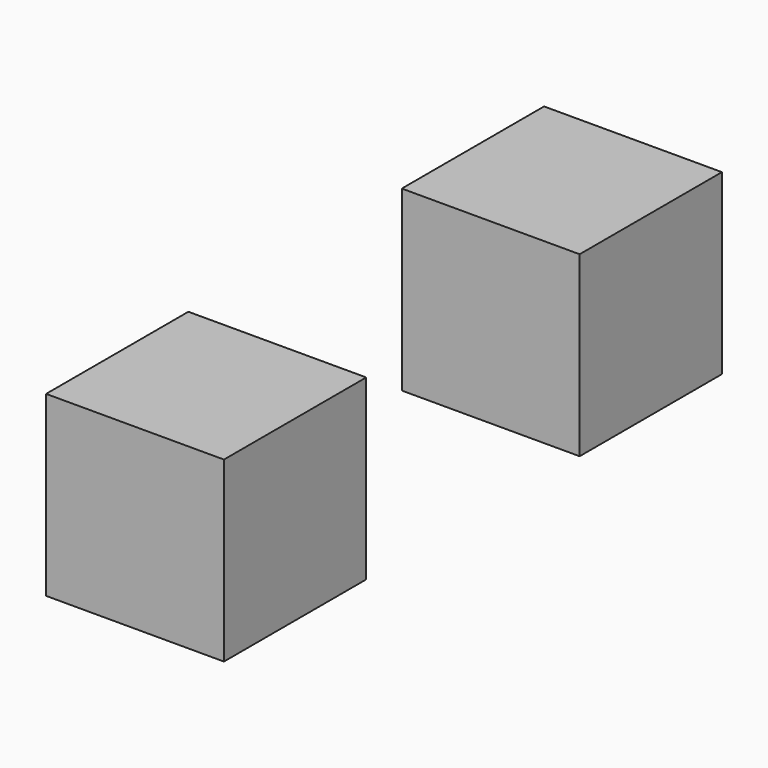
from build123d import *

# Parameters (mm, degrees)
F0_W          = 1
F0_H          = 1
F1_DEPTH      = 1
F2_W          = 1
F2_H          = 1
F3_DEPTH      = 0.5
F3_DEPTH_BACK = 0.5


with BuildPart() as f1:
    # F0 (on Front) → F1 (new body)
    with BuildSketch(Plane.XZ):
        Rectangle(F0_W, F0_H)
    extrude(amount=F1_DEPTH)


with BuildPart() as f3:
    # F2 (on Right) → F3 (new body, two sides)
    with BuildSketch(Plane.YZ) as f3_sk:
        with Locations((2, 0)):
            Rectangle(F2_W, F2_H)
    extrude(amount=F3_DEPTH)
    extrude(f3_sk.sketch, amount=-F3_DEPTH_BACK)


solid = Compound([f1.part, f3.part])
